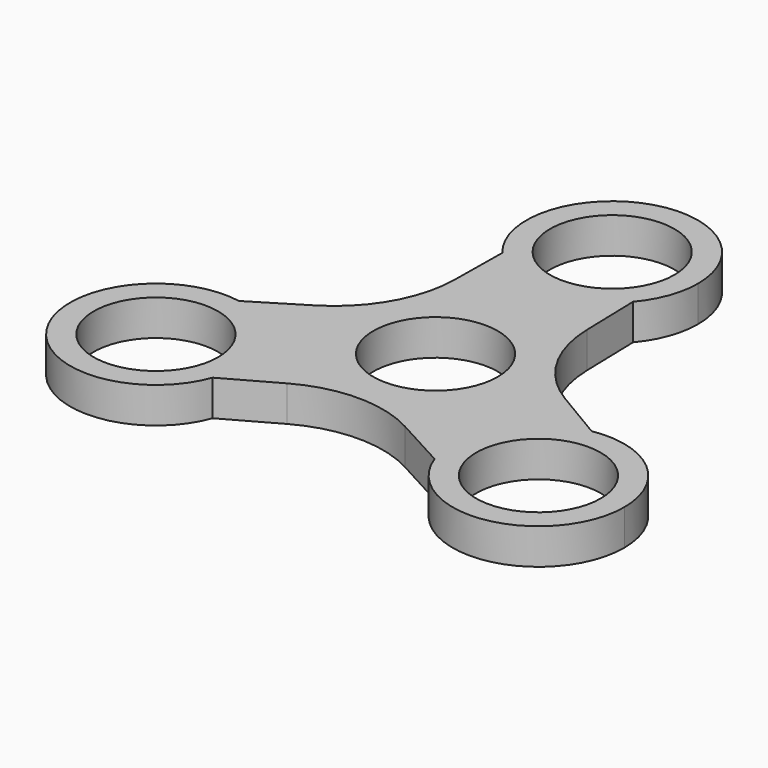
from build123d import *

# Parameters (mm, degrees)
F0_R     = 11.049
F0_R_2   = 13.97
F1_DEPTH = 6.35


with BuildPart() as f1:
    # F0 (on Top) → F1 (new body)
    with BuildSketch(Plane.XY):
        with BuildLine():
            ThreePointArc((11.60704, 29.353768), (14.302952, 33.968231), (15.24, 39.22971))
            ThreePointArc((15.24, 39.22971), (-5.181502, 53.561829), (-11.716646, 29.484054))
            ThreePointArc((-11.716646, 29.484054), (-0.085129, 23.989947), (11.60704, 29.353768))
        make_face()
        with Locations((0, 39.22971)):
            Circle(F0_R, mode=Mode.SUBTRACT)
        with BuildLine():
            ThreePointArc((11.60704, 29.353768), (-0.085129, 23.989947), (-11.716646, 29.484054))
            Line((-11.716646, 29.484054), (-11.850638, 19.058683))
            ThreePointArc((-11.850638, 19.058683), (-14.671313, 8.663402), (-22.16318, 0.92454))
            Line((-22.16318, 0.92454), (-31.224629, -4.624893))
            ThreePointArc((-31.224629, -4.624893), (-22.265875, -9.858874), (-18.733925, -19.614855))
            ThreePointArc((-18.733925, -19.614855), (-18.971195, -22.293602), (-19.675617, -24.88894))
            Line((-19.675617, -24.88894), (-10.579984, -19.792295))
            ThreePointArc((-10.579984, -19.792295), (-0.16707, -17.037431), (10.280915, -19.656146))
            Line((10.280915, -19.656146), (19.617589, -24.728876))
            ThreePointArc((19.617589, -24.728876), (20.818468, -11.92125), (31.392263, -4.595114))
            Line((31.392263, -4.595114), (22.430623, 0.733612))
            ThreePointArc((22.430623, 0.733612), (14.838383, 8.374029), (11.882265, 18.731607))
            Line((11.882265, 18.731607), (11.60704, 29.353768))
        make_face()
        Circle(F0_R_2, mode=Mode.SUBTRACT)
        with BuildLine():
            ThreePointArc((-18.733925, -19.614855), (-22.265875, -9.858874), (-31.224629, -4.624893))
            ThreePointArc((-31.224629, -4.624893), (-47.214511, -27.161012), (-19.675617, -24.88894))
            ThreePointArc((-19.675617, -24.88894), (-18.971195, -22.293602), (-18.733925, -19.614855))
        make_face()
        with Locations((-33.973925, -19.614855)):
            Circle(F0_R, mode=Mode.SUBTRACT)
        with BuildLine():
            ThreePointArc((49.213925, -19.614855), (43.795154, -7.961483), (31.392263, -4.595114))
            ThreePointArc((31.392263, -4.595114), (20.818468, -11.92125), (19.617589, -24.728876))
            ThreePointArc((19.617589, -24.728876), (36.568827, -34.632314), (49.213925, -19.614855))
        make_face()
        with Locations((33.973925, -19.614855)):
            Circle(F0_R, mode=Mode.SUBTRACT)
        Circle(F0_R_2)
        Circle(F0_R, mode=Mode.SUBTRACT)
    extrude(amount=F1_DEPTH)


solid = f1.part
